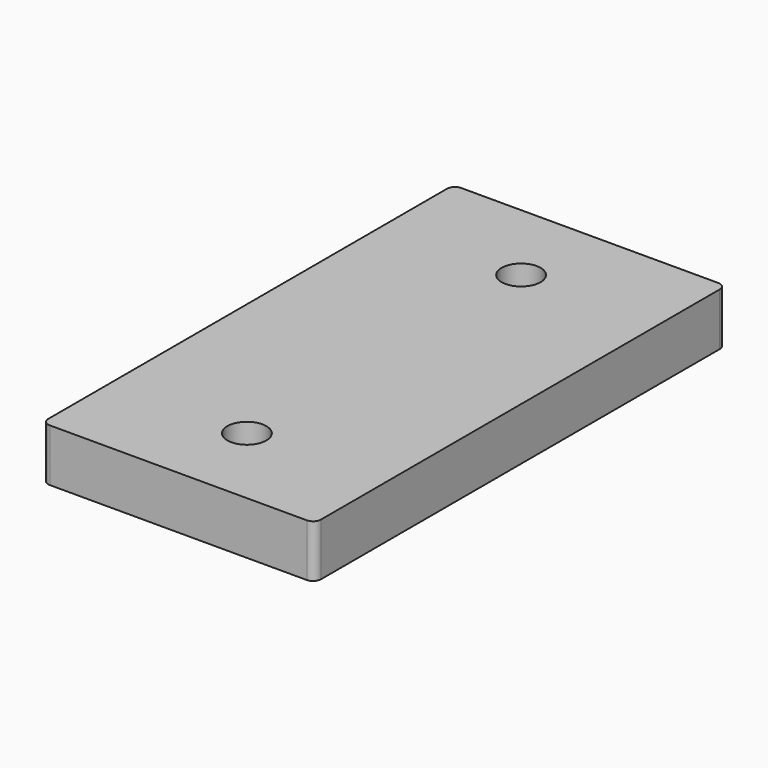
from build123d import *

# Parameters (mm, degrees)
F0_W     = 35
F0_H     = 66
F0_R     = 2.5
F1_DEPTH = 6.75
F2_R     = 1


with BuildPart() as f1:
    # F0 (on Top) → F1 (new body)
    with BuildSketch(Plane.XY):
        Rectangle(F0_W, F0_H)
        with Locations((0, -22)):
            Circle(F0_R, mode=Mode.SUBTRACT)
        with Locations((0, 22)):
            Circle(F0_R, mode=Mode.SUBTRACT)
    extrude(amount=F1_DEPTH)

    # F2
    f2_edges = [f1.edges().sort_by_distance(p)[0] for p in [
        (-17.5, 33, 3.375),
        (-17.5, -33, 3.375),
        (17.5, -33, 3.375),
        (17.5, 33, 3.375),
    ]]
    fillet(f2_edges, radius=F2_R)


solid = f1.part
